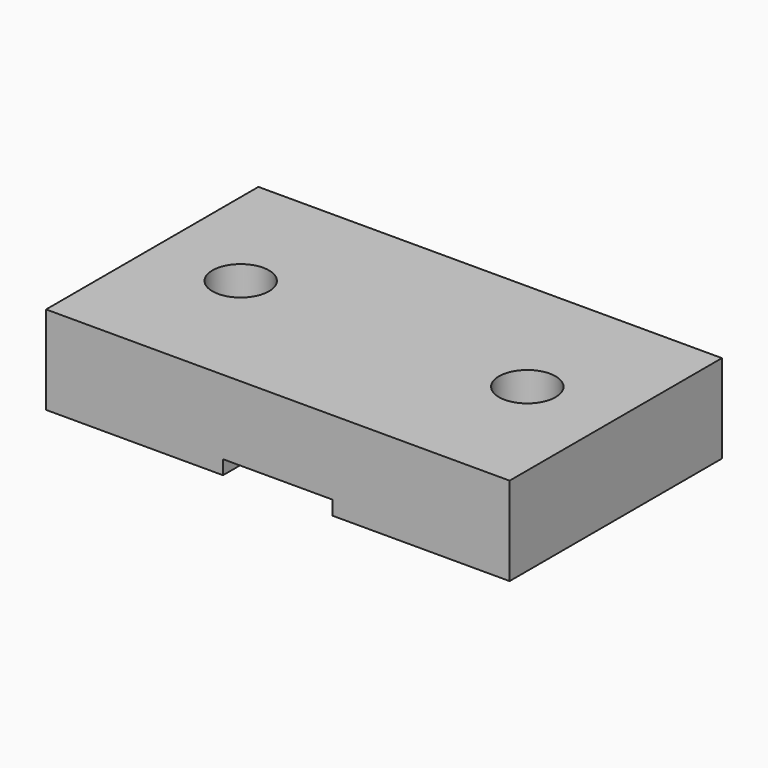
from build123d import *

# Parameters (mm, degrees)
PAD_DEPTH    = 15
SKETCH001_R  = 1.6
POCKET_DEPTH = 5


with BuildPart() as part:
    # Sketch → Pad (new body)
    with BuildSketch(Plane.XZ):
        Polygon((-3.1, 0), (-13.1, 0), (-13.1, 5), (13.1, 5), (13.1, 0), (3.1, 0), (3.1, 0.8), (-3.1, 0.8), align=None)
    extrude(amount=PAD_DEPTH)

    # Sketch001 (on Face3 of Pad) → Pocket (cut)
    with BuildSketch(Plane(origin=(0, 0, 5), x_dir=(-1, 0, 0), z_dir=(0, 0, 1))):
        with Locations((-8.1, 7.5)):
            Circle(SKETCH001_R)
        with Locations((8.1, 7.5)):
            Circle(SKETCH001_R)
    extrude(amount=-POCKET_DEPTH, mode=Mode.SUBTRACT)


solid = part.part
